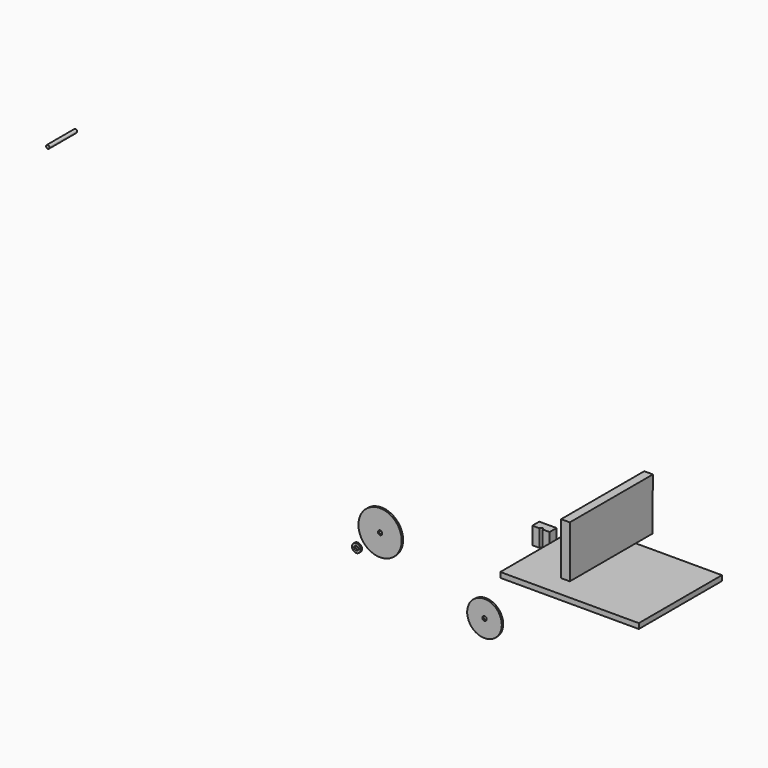
from build123d import *

# Parameters (mm, degrees)
F0_W     = 203.2
F0_H     = 152.4
F1_DEPTH = 7.62
F3_DEPTH = 12.7
F5_DEPTH = 25.4
F6_R     = 2.54
F7_DEPTH = 50.8
F8_R     = 31.75
F9_DEPTH = 2.54
F8_R_2   = 6.35
F8_R_3   = 25.4
F11_D    = 6.35
F13_D    = 6.35
F15_D    = 6.35


with BuildPart() as f1:
    # F0 (on Top) → F1 (new body)
    with BuildSketch(Plane.XY):
        with Locations((17.5161063671, -10.0485615241)):
            Rectangle(F0_W, F0_H)
    extrude(amount=F1_DEPTH)


with BuildPart() as f3:
    # F2 (on Right) → F3 (new body)
    with BuildSketch(Plane.YZ):
        Polygon((71.6178634355, 24.3219571736), (72.6095994812, 100.5155032232), (-79.7904005188, 100.5155032232), (-79.7904005188, 24.3219571736), align=None)
    extrude(amount=F3_DEPTH)


with BuildPart() as f5:
    # F4 (on Top) → F5 (new body)
    with BuildSketch(Plane.XY):
        with BuildLine():
            Line((-123.6449740827, 50.5655002038), (-136.3449740827, 50.5655002038))
            Line((-136.3449740827, 50.5655002038), (-136.3449740827, 37.8655002038))
            Line((-136.3449740827, 37.8655002038), (-126.1849740827, 37.8655002038))
            ThreePointArc((-126.1849740827, 37.8655002038), (-125.4410253069, 39.6615514281), (-123.6449740827, 40.4055002038))
            Line((-123.6449740827, 40.4055002038), (-123.6449740827, 50.5655002038))
        make_face()
        with BuildLine():
            Line((-110.9449740827, 50.5655002038), (-123.6449740827, 50.5655002038))
            Line((-123.6449740827, 50.5655002038), (-123.6449740827, 40.4055002038))
            ThreePointArc((-123.6449740827, 40.4055002038), (-121.8489228585, 39.6615514281), (-121.1049740827, 37.8655002038))
            Line((-121.1049740827, 37.8655002038), (-110.9449740827, 37.8655002038))
            Line((-110.9449740827, 37.8655002038), (-110.9449740827, 50.5655002038))
        make_face()
    extrude(amount=-F5_DEPTH)


with BuildPart() as f7:
    # F6 (on Front) → F7 (new body)
    with BuildSketch(Plane.XZ):
        with Locations((-776.1920690536, 317.0846104622)):
            Circle(F6_R)
    extrude(amount=F7_DEPTH)


with BuildPart() as f9:
    # F8 (on Front) → F9 (new body)
    with BuildSketch(Plane.XZ):
        with Locations((-327.3932203081, -54.8828672849)):
            Circle(F8_R)
    extrude(amount=F9_DEPTH)

    # F11 (through all)
    with Locations(Plane.XZ.offset(2.54)):
        with Locations((-327.3932203081, -54.8828672849)):
            Hole(F11_D / 2)


with BuildPart() as f9b:
    # F8 (on Front) → F9, piece 2 (new body)
    with BuildSketch(Plane.XZ):
        with Locations((-362.2763366705, -86.0917933375)):
            Circle(F8_R_2)
    extrude(amount=F9_DEPTH)

    # F13 (through all)
    with Locations(Plane.XZ.offset(2.54)):
        with Locations((-362.2763366705, -86.0917933375)):
            Hole(F13_D / 2)


with BuildPart() as f9c:
    # F8 (on Front) → F9, piece 3 (new body)
    with BuildSketch(Plane.XZ):
        with Locations((-174.2277592421, -115.8258467913)):
            Circle(F8_R_3)
    extrude(amount=F9_DEPTH)

    # F15 (through all)
    with Locations(Plane.XZ.offset(2.54)):
        with Locations((-174.2277592421, -115.8258467913)):
            Hole(F15_D / 2)


solid = Compound([f1.part, f3.part, f5.part, f7.part, f9.part, f9b.part, f9c.part])
